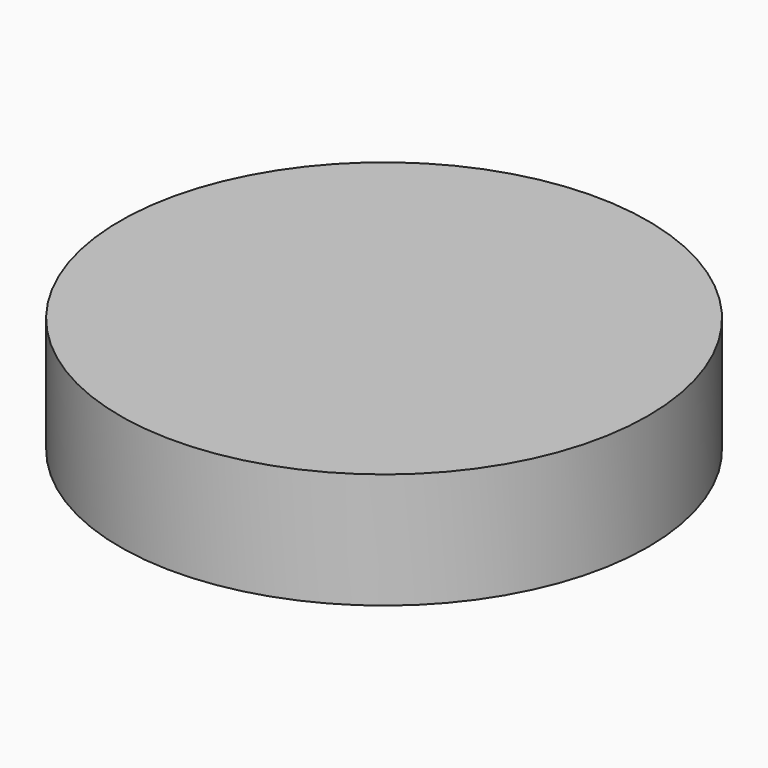
from build123d import *

# Parameters (mm, degrees)
F1_R     = 80
F1_R_2   = 10
F2_DEPTH = 35
F0_R     = 80


with BuildPart() as f2:
    # F1 (on face) → F2 (new body)
    with BuildSketch(Plane.XY):
        Circle(F1_R)
        with BuildLine():
            ThreePointArc((36.5198141961, 25.4274098382), (41.816321625, 15.219896378), (44.3202247191, 3.9959580639))
            ThreePointArc((44.3202247191, 3.9959580639), (47.2641362915, 2.8912887372), (48.5, 0))
            ThreePointArc((48.5, 0), (47.2641362915, -2.8912887372), (44.3202247191, -3.9959580639))
            ThreePointArc((44.3202247191, -3.9959580639), (41.0056914282, -17.2853484342), (33.8065865937, -28.9372545844))
            ThreePointArc((33.8065865937, -28.9372545844), (34.7417013955, -30.2655077164), (35.0715384048, -31.8560747921))
            ThreePointArc((35.0715384048, -31.8560747921), (32.4955470922, -35.5940153023), (28.0854387758, -34.5175046719))
            ThreePointArc((28.0854387758, -34.5175046719), (16.2576755843, -41.4238818147), (2.889782188, -44.4060711942))
            ThreePointArc((2.889782188, -44.4060711942), (2.8903837052, -44.446117889), (2.8905842177, -44.486168599))
            ThreePointArc((2.8905842177, -44.486168599), (-1.249171812, -48.483726385), (-5.0996499084, -44.2068271968))
            ThreePointArc((-5.0996499084, -44.2068271968), (-18.3022760893, -40.5620104279), (-29.7710819539, -33.0746531243))
            ThreePointArc((-29.7710819539, -33.0746531243), (-35.5530157837, -32.9883777819), (-35.2069654266, -27.2161640473))
            ThreePointArc((-35.2069654266, -27.2161640473), (-41.816321625, -15.219896378), (-44.4643132569, -1.7818099194))
            ThreePointArc((-44.4643132569, -1.7818099194), (-48.4397106791, 2.4175254545), (-44.0659491194, 6.200171627))
            ThreePointArc((-44.0659491194, 6.200171627), (-40.0931146217, 19.3078263907), (-32.3221592599, 30.5864025472))
            ThreePointArc((-32.3221592599, 30.5864025472), (-32.0917631234, 36.3643883439), (-26.3299707716, 35.8745402642))
            ThreePointArc((-26.3299707716, 35.8745402642), (-14.1726559362, 42.1827669044), (-0.6727300137, 44.4949147019))
            ThreePointArc((-0.6727300137, 44.4949147019), (3.385168671, 48.3751237443), (7.3254891646, 44.3755689746))
            ThreePointArc((7.3254891646, 44.3755689746), (7.3183202232, 44.1361945028), (7.2968390957, 43.8976780617))
            ThreePointArc((7.2968390957, 43.8976780617), (20.3013742522, 39.5992954921), (31.3827095316, 31.5495727777))
            ThreePointArc((31.3827095316, 31.5495727777), (35.6975372065, 32.2663616126), (38.0889777188, 28.6040486311))
            ThreePointArc((38.0889777188, 28.6040486311), (37.6752951831, 26.8325162308), (36.5198141961, 25.4274098382))
        make_face(mode=Mode.SUBTRACT)
        Circle(F1_R)
        with BuildLine():
            ThreePointArc((36.5198141961, 25.4274098382), (41.816321625, 15.219896378), (44.3202247191, 3.9959580639))
            ThreePointArc((44.3202247191, 3.9959580639), (47.2641362915, 2.8912887372), (48.5, 0))
            ThreePointArc((48.5, 0), (47.2641362915, -2.8912887372), (44.3202247191, -3.9959580639))
            ThreePointArc((44.3202247191, -3.9959580639), (41.0056914282, -17.2853484342), (33.8065865937, -28.9372545844))
            ThreePointArc((33.8065865937, -28.9372545844), (34.7417013955, -30.2655077164), (35.0715384048, -31.8560747921))
            ThreePointArc((35.0715384048, -31.8560747921), (32.4955470922, -35.5940153023), (28.0854387758, -34.5175046719))
            ThreePointArc((28.0854387758, -34.5175046719), (16.2576755843, -41.4238818147), (2.889782188, -44.4060711942))
            ThreePointArc((2.889782188, -44.4060711942), (2.8903837052, -44.446117889), (2.8905842177, -44.486168599))
            ThreePointArc((2.8905842177, -44.486168599), (-1.249171812, -48.483726385), (-5.0996499084, -44.2068271968))
            ThreePointArc((-5.0996499084, -44.2068271968), (-18.3022760893, -40.5620104279), (-29.7710819539, -33.0746531243))
            ThreePointArc((-29.7710819539, -33.0746531243), (-35.5530157837, -32.9883777819), (-35.2069654266, -27.2161640473))
            ThreePointArc((-35.2069654266, -27.2161640473), (-41.816321625, -15.219896378), (-44.4643132569, -1.7818099194))
            ThreePointArc((-44.4643132569, -1.7818099194), (-48.4397106791, 2.4175254545), (-44.0659491194, 6.200171627))
            ThreePointArc((-44.0659491194, 6.200171627), (-40.0931146217, 19.3078263907), (-32.3221592599, 30.5864025472))
            ThreePointArc((-32.3221592599, 30.5864025472), (-32.0917631234, 36.3643883439), (-26.3299707716, 35.8745402642))
            ThreePointArc((-26.3299707716, 35.8745402642), (-14.1726559362, 42.1827669044), (-0.6727300137, 44.4949147019))
            ThreePointArc((-0.6727300137, 44.4949147019), (3.385168671, 48.3751237443), (7.3254891646, 44.3755689746))
            ThreePointArc((7.3254891646, 44.3755689746), (7.3183202232, 44.1361945028), (7.2968390957, 43.8976780617))
            ThreePointArc((7.2968390957, 43.8976780617), (20.3013742522, 39.5992954921), (31.3827095316, 31.5495727777))
            ThreePointArc((31.3827095316, 31.5495727777), (35.6975372065, 32.2663616126), (38.0889777188, 28.6040486311))
            ThreePointArc((38.0889777188, 28.6040486311), (37.6752951831, 26.8325162308), (36.5198141961, 25.4274098382))
        make_face(mode=Mode.SUBTRACT)
        with BuildLine():
            ThreePointArc((44.3202247191, -3.9959580639), (40.5, 0), (44.3202247191, 3.9959580639))
            ThreePointArc((44.3202247191, 3.9959580639), (41.816321625, 15.219896378), (36.5198141961, 25.4274098382))
            ThreePointArc((36.5198141961, 25.4274098382), (31.0247999463, 26.0328981923), (31.3827095316, 31.5495727777))
            ThreePointArc((31.3827095316, 31.5495727777), (20.3013742522, 39.5992954921), (7.2968390957, 43.8976780617))
            ThreePointArc((7.2968390957, 43.8976780617), (3.0265687903, 40.3867537858), (-0.6727300137, 44.4949147019))
            ThreePointArc((-0.6727300137, 44.4949147019), (-14.1726559362, 42.1827669044), (-26.3299707716, 35.8745402642))
            ThreePointArc((-26.3299707716, 35.8745402642), (-25.6727395604, 34.6956401694), (-25.4450197731, 33.3652635321))
            ThreePointArc((-25.4450197731, 33.3652635321), (-27.9464467764, 29.6565873567), (-32.3221592599, 30.5864025472))
            ThreePointArc((-32.3221592599, 30.5864025472), (-40.0931146217, 19.3078263907), (-44.0659491194, 6.200171627))
            ThreePointArc((-44.0659491194, 6.200171627), (-41.4853810918, 4.9093372319), (-40.4446829942, 2.2181419119))
            ThreePointArc((-40.4446829942, 2.2181419119), (-41.6232047514, -0.6172170646), (-44.4643132569, -1.7818099194))
            ThreePointArc((-44.4643132569, -1.7818099194), (-41.816321625, -15.219896378), (-35.2069654266, -27.2161640473))
            ThreePointArc((-35.2069654266, -27.2161640473), (-30.9392358955, -26.6383185304), (-28.6208082964, -30.2676868308))
            ThreePointArc((-28.6208082964, -30.2676868308), (-28.919531127, -31.7844423533), (-29.7710819539, -33.0746531243))
            ThreePointArc((-29.7710819539, -33.0746531243), (-18.3022760893, -40.5620104279), (-5.0996499084, -44.2068271968))
            ThreePointArc((-5.0996499084, -44.2068271968), (-1.0096930154, -40.487411871), (2.889782188, -44.4060711942))
            ThreePointArc((2.889782188, -44.4060711942), (16.2576755843, -41.4238818147), (28.0854387758, -34.5175046719))
            ThreePointArc((28.0854387758, -34.5175046719), (28.2785911325, -28.992607395), (33.8065865937, -28.9372545844))
            ThreePointArc((33.8065865937, -28.9372545844), (41.0056914282, -17.2853484342), (44.3202247191, -3.9959580639))
        make_face()
        Circle(F1_R_2, mode=Mode.SUBTRACT)
    extrude(amount=F2_DEPTH)


with BuildPart() as f2b:
    # F0 (on Top) → F2, piece 2 (new body)
    with BuildSketch(Plane.XY):
        Circle(F0_R)
    extrude(amount=F2_DEPTH)


solid = Compound([f2.part, f2b.part])
